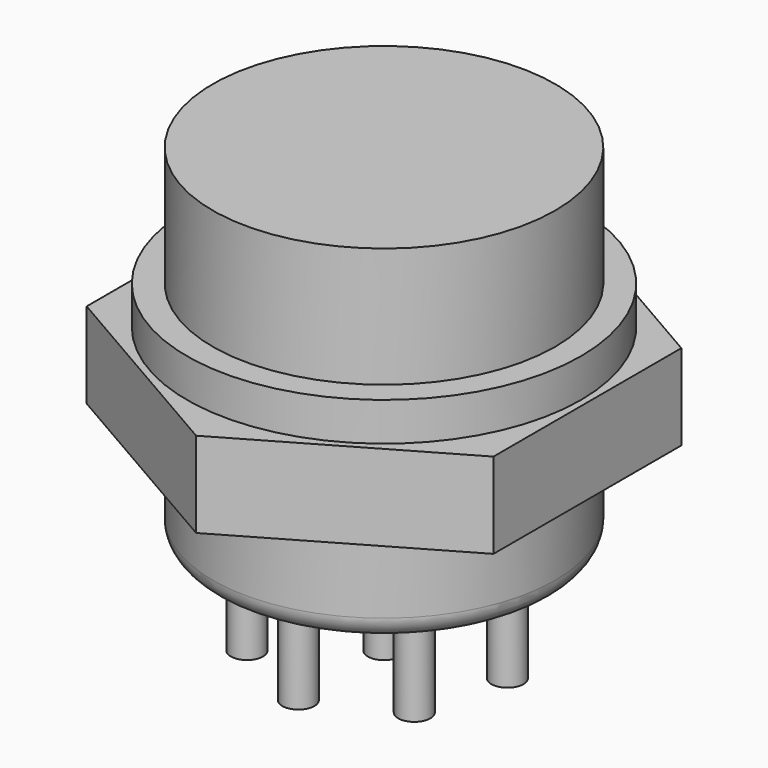
from build123d import *

# Parameters (mm, degrees)
F2_R     = 1
F3_R     = 0.75
F4_DEPTH = 4.5
F5_R     = 9.2
F5_R_2   = 8
F6_DEPTH = 4


with BuildPart() as f1:
    # F0 (on Front) → F1 (revolve)
    with BuildSketch(Plane.XZ):
        Polygon((0, 16.2), (0, 0), (8, 0), (8, 8.8), (9.2, 8.8), (9.2, 10.6), (8, 10.6), (8, 16.2), align=None)
    revolve(axis=Axis((0, 0, 8.1), (0, 0, 1)))

    # F2
    f2_edges = [f1.edges().sort_by_distance(p)[0] for p in [
        (-8, 0, 0),
    ]]
    fillet(f2_edges, radius=F2_R)

    # F3 (on face) → F4 (join)
    with BuildSketch(Plane(origin=(0, 0, 0), x_dir=(1, 0, 0), z_dir=(0, 0, -1))):
        Circle(F3_R)
        with Locations((0, 5)):
            Circle(F3_R)
        with Locations((-3.909157, 3.117449)):
            Circle(F3_R)
        with Locations((-4.87464, -1.112605)):
            Circle(F3_R)
        with Locations((-2.169419, -4.504844)):
            Circle(F3_R)
        with Locations((2.169419, -4.504844)):
            Circle(F3_R)
        with Locations((4.87464, -1.112605)):
            Circle(F3_R)
        with Locations((3.909157, 3.117449)):
            Circle(F3_R)
    extrude(amount=F4_DEPTH)

    # F5 (on face) → F6 (join)
    with BuildSketch(Plane(origin=(0, 0, 8.8), x_dir=(1, 0, 0), z_dir=(0, 0, -1))):
        Polygon((9.5, -5.484828), (9.5, 5.484828), (0, 10.969655), (-9.5, 5.484828), (-9.5, -5.484828), (0, -10.969655), align=None)
        Circle(F5_R, mode=Mode.SUBTRACT)
        Circle(F5_R)
        Circle(F5_R_2, mode=Mode.SUBTRACT)
    extrude(amount=F6_DEPTH)


solid = f1.part
